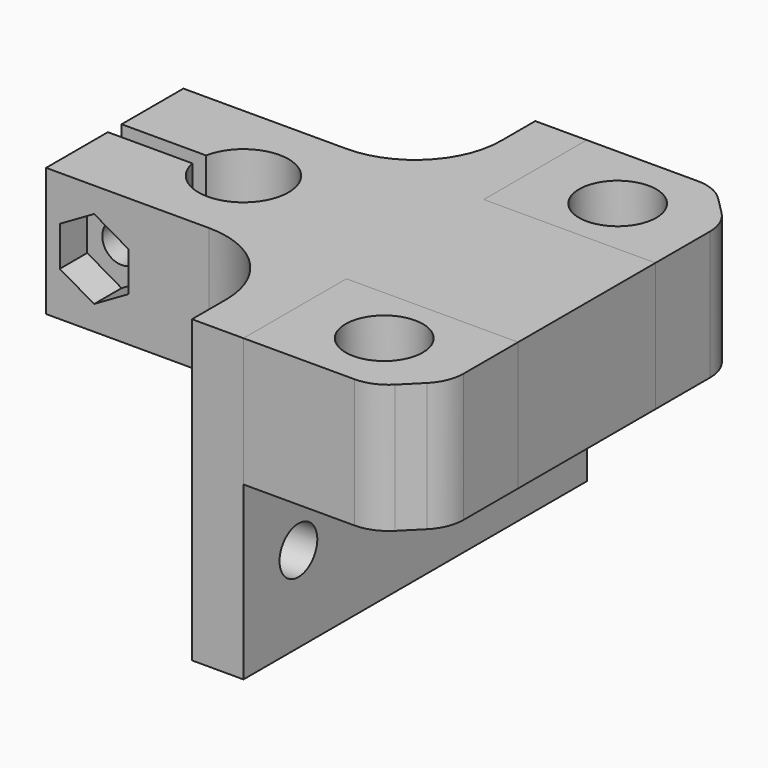
from build123d import *

# Parameters (mm, degrees)
F1_DEPTH  = 15
F2_W      = 6
F2_H      = 15
F3_DEPTH  = 15
F4_W      = 6
F4_H      = 15
F5_DEPTH  = 15
F6_W      = 6
F6_H      = 50
F7_DEPTH  = 20
F8_R      = 2.75
F9_DEPTH  = 10
F11_DEPTH = 15
F12_R     = 10
F13_R     = 5
F13_2_R   = 5
F14_R     = 2.25
F15_DEPTH = 25
F16_DEPTH = 4
F17_R     = 2.75
F18_DEPTH = 20
F17_R_2   = 4.5
F19_DEPTH = 5
F20_R     = 2.75
F21_DEPTH = 20
F20_R_2   = 4.5
F22_DEPTH = 5


with BuildPart() as f1:
    # F0 (on Top) → F1 (new body)
    with BuildSketch(Plane.XY):
        with BuildLine():
            ThreePointArc((-5.153882032, 1), (5.25, 0), (-5.153882032, -1))
            Line((-5.153882032, -1), (-15, -1))
            Line((-15, -1), (-15, -10))
            Line((-15, -10), (40, -10))
            Line((40, -10), (40, 10))
            Line((40, 10), (-15, 10))
            Line((-15, 10), (-15, 1))
            Line((-15, 1), (-5.153882032, 1))
        make_face()
    extrude(amount=F1_DEPTH)

    # F2 (on face) → F3 (join)
    with BuildSketch(Plane.XZ.offset(10)):
        with Locations((17, 7.5)):
            Rectangle(F2_W, F2_H)
    extrude(amount=F3_DEPTH)

    # F4 (on face) → F5 (join)
    with BuildSketch(Plane(origin=(0, 10, 0), x_dir=(-1, 0, 0), z_dir=(0, 1, 0))):
        with Locations((-17, 7.5)):
            Rectangle(F4_W, F4_H)
    extrude(amount=F5_DEPTH)

    # F6 (on face) → F7 (join)
    with BuildSketch(Plane(origin=(0, 0, 0), x_dir=(1, 0, 0), z_dir=(0, 0, -1))):
        with Locations((17, 0)):
            Rectangle(F6_W, F6_H)
    extrude(amount=F7_DEPTH)

    # F8 (on face) → F9 (cut)
    with BuildSketch(Plane(origin=(14, 0, 0), x_dir=(0, -1, 0), z_dir=(-1, 0, 0))):
        with Locations((-17, -10)):
            Circle(F8_R)
        with Locations((17, -10)):
            Circle(F8_R)
    extrude(amount=-F9_DEPTH, mode=Mode.SUBTRACT)

    # F12
    f12_edges = [f1.edges().sort_by_distance(p)[0] for p in [
        (14, -10, 7.5),
        (14, 10, 7.5),
    ]]
    fillet(f12_edges, radius=F12_R)

    # F14 (on face) → F15 (cut)
    with BuildSketch(Plane.XZ.offset(10)):
        with Locations((-9.4037707895, 7.4706980959)):
            Circle(F14_R)
    extrude(amount=-F15_DEPTH, mode=Mode.SUBTRACT)

    # F14 (on face) → F16 (cut)
    with BuildSketch(Plane.XZ.offset(10)):
        Polygon((-5.4037707895, 5.1612970191), (-5.4037707895, 9.7800991726), (-9.4037707895, 12.0895002494), (-13.4037707895, 9.7800991726), (-13.4037707895, 5.1612970191), (-9.4037707895, 2.8518959423), align=None)
        with Locations((-9.4037707895, 7.4706980959)):
            Circle(F14_R, mode=Mode.SUBTRACT)
    extrude(amount=-F16_DEPTH, mode=Mode.SUBTRACT)


with BuildPart() as f11:
    # F10 (on face) → F11 (new body)
    with BuildSketch(Plane.XY.offset(15)):
        Polygon((20, 25), (20, 10), (40, 10), (40, 20), (35, 25), align=None)
    extrude(amount=-F11_DEPTH)

    # F13#2
    f13_2_edges = [f11.edges().sort_by_distance(p)[0] for p in [
        (40, 20, 7.5),
        (35, 25, 7.5),
    ]]
    fillet(f13_2_edges, radius=F13_2_R)

    # F17 (on face) → F18 (cut)
    with BuildSketch(Plane.XY.offset(15)):
        with Locations((30, 17)):
            Circle(F17_R)
    extrude(amount=-F18_DEPTH, mode=Mode.SUBTRACT)

    # F17 (on face) → F19 (cut)
    with BuildSketch(Plane.XY.offset(15)):
        with Locations((30, 17)):
            Circle(F17_R_2)
        with Locations((30, 17)):
            Circle(F17_R, mode=Mode.SUBTRACT)
    extrude(amount=-F19_DEPTH, mode=Mode.SUBTRACT)


with BuildPart() as f11b:
    # F10 (on face) → F11, piece 2 (new body)
    with BuildSketch(Plane.XY.offset(15)):
        Polygon((40, -20), (40, -10), (20, -10), (20, -25), (35, -25), align=None)
    extrude(amount=-F11_DEPTH)

    # F13
    f13_edges = [f11b.edges().sort_by_distance(p)[0] for p in [
        (35, -25, 7.5),
        (40, -20, 7.5),
    ]]
    fillet(f13_edges, radius=F13_R)

    # F20 (on face) → F21 (cut)
    with BuildSketch(Plane.XY.offset(15)):
        with Locations((30, -17)):
            Circle(F20_R)
    extrude(amount=-F21_DEPTH, mode=Mode.SUBTRACT)

    # F20 (on face) → F22 (cut)
    with BuildSketch(Plane.XY.offset(15)):
        with Locations((30, -17)):
            Circle(F20_R_2)
        with Locations((30, -17)):
            Circle(F20_R, mode=Mode.SUBTRACT)
    extrude(amount=-F22_DEPTH, mode=Mode.SUBTRACT)


solid = Compound([f1.part, f11.part, f11b.part])
